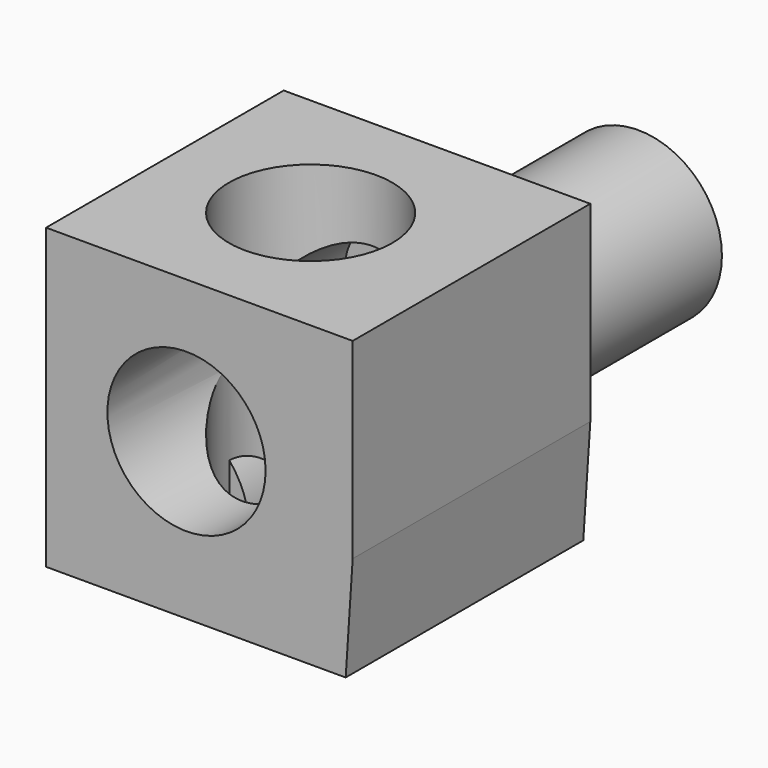
from build123d import *

# Parameters (mm, degrees)
F1_DEPTH      = 102.108
F2_R          = 28.09345
F3_DEPTH      = 101.6
F3_FACE_R     = 28.09345
F4_DEPTH      = 101.6
F5_R          = 27.192534
F6_DEPTH      = 101.6
F7_R          = 28.729742
F8_DEPTH      = 50.8
F8_DEPTH_BACK = 152.4


with BuildPart() as f1:
    # F0 (on Front) → F1 (new body)
    with BuildSketch(Plane.XZ):
        Polygon((0, 102.652691), (0, 0), (99.562824, 0), (102.996022, 0), (105.399251, 36.73524), (105.399251, 48.408125), (105.399251, 63.514203), (105.399251, 102.652691), align=None)
    extrude(amount=F1_DEPTH)

    # F2 (on face) → F3 (cut)
    with BuildSketch(Plane.XY.offset(102.652691)):
        with Locations((50.061982, -50.997104)):
            Circle(F2_R)
    extrude(amount=-F3_DEPTH, mode=Mode.SUBTRACT)

    # F3_face (on face) → F4 (cut)
    with BuildSketch(Plane(origin=(50.061982, -50.997104, 1.052691), x_dir=(1, 0, 0), z_dir=(0, 0, 1))):
        Circle(F3_FACE_R)
    extrude(amount=-F4_DEPTH, mode=Mode.SUBTRACT)

    # F5 (on face) → F6 (cut)
    with BuildSketch(Plane.XZ.offset(102.108)):
        with Locations((48.267499, 53.63135)):
            Circle(F5_R)
    extrude(amount=-F6_DEPTH, mode=Mode.SUBTRACT)

    # F7 (on Front) → F8 (join, two sides)
    with BuildSketch(Plane.XZ) as f8_sk:
        Circle(F7_R)
    extrude(amount=F8_DEPTH)
    extrude(f8_sk.sketch, amount=-F8_DEPTH_BACK)


solid = f1.part
